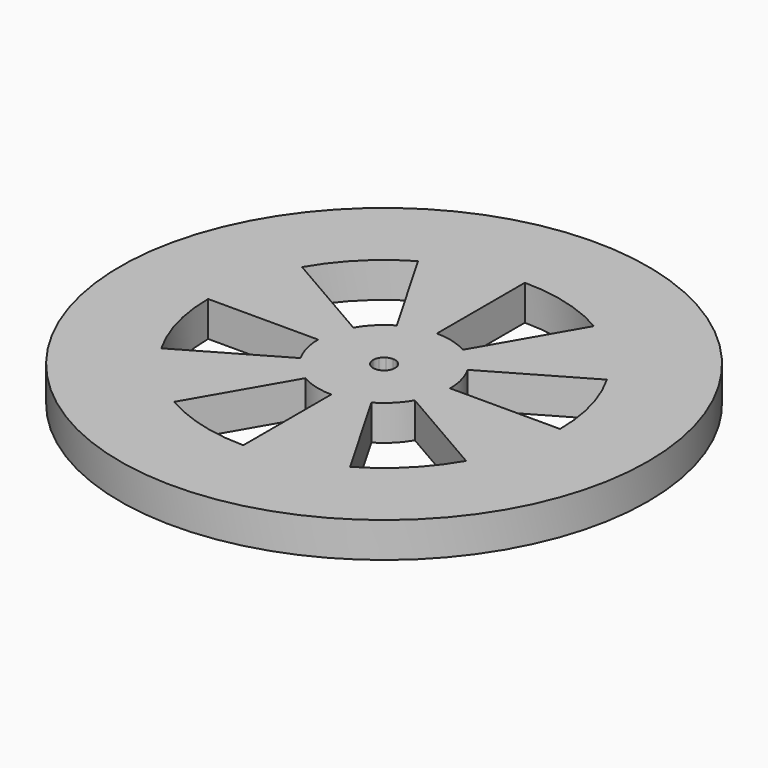
from build123d import *

# Parameters (mm, degrees)
F0_R     = 38.1
F1_DEPTH = 5.08


with BuildPart() as f1:
    # F0 (on Top) → F1 (new body)
    with BuildSketch(Plane.XY):
        Circle(F0_R)
        with BuildLine():
            ThreePointArc((21.9970452561, 12.7), (24.5345159877, 6.5740037456), (25.4, 0))
            ThreePointArc((25.4, 0), (24.5345159877, -6.5740037456), (21.9970452561, -12.7))
            ThreePointArc((21.9970452561, -12.7), (17.9605122421, -17.9605122421), (12.7, -21.9970452561))
            ThreePointArc((12.7, -21.9970452561), (6.5740037456, -24.5345159877), (0, -25.4))
            ThreePointArc((0, -25.4), (-6.5740037456, -24.5345159877), (-12.7, -21.9970452561))
            ThreePointArc((-12.7, -21.9970452561), (-17.9605122421, -17.9605122421), (-21.9970452561, -12.7))
            ThreePointArc((-21.9970452561, -12.7), (-24.5345159877, -6.5740037456), (-25.4, 0))
            ThreePointArc((-25.4, 0), (-24.5345159877, 6.5740037456), (-21.9970452561, 12.7))
            ThreePointArc((-21.9970452561, 12.7), (-17.9605122421, 17.9605122421), (-12.7, 21.9970452561))
            ThreePointArc((-12.7, 21.9970452561), (-6.5740037456, 24.5345159877), (0, 25.4))
            ThreePointArc((0, 25.4), (6.5740037456, 24.5345159877), (12.7, 21.9970452561))
            ThreePointArc((12.7, 21.9970452561), (17.9605122421, 17.9605122421), (21.9970452561, 12.7))
        make_face(mode=Mode.SUBTRACT)
        with BuildLine():
            Line((8.248891971, 4.7625), (21.9970452561, 12.7))
            ThreePointArc((21.9970452561, 12.7), (17.9605122421, 17.9605122421), (12.7, 21.9970452561))
            Line((12.7, 21.9970452561), (4.7625, 8.248891971))
            ThreePointArc((4.7625, 8.248891971), (6.7351920908, 6.7351920908), (8.248891971, 4.7625))
        make_face()
        with BuildLine():
            Line((-8.248891971, 4.7625), (-21.9970452561, 12.7))
            ThreePointArc((-21.9970452561, 12.7), (-24.5345159877, 6.5740037456), (-25.4, 0))
            Line((-25.4, 0), (-9.525, 0))
            ThreePointArc((-9.525, 0), (-9.2004434954, 2.4652514046), (-8.248891971, 4.7625))
        make_face()
        with BuildLine():
            ThreePointArc((-21.9970452561, -12.7), (-17.9605122421, -17.9605122421), (-12.7, -21.9970452561))
            Line((-12.7, -21.9970452561), (-4.7625, -8.248891971))
            ThreePointArc((-4.7625, -8.248891971), (-6.7351920908, -6.7351920908), (-8.248891971, -4.7625))
            Line((-8.248891971, -4.7625), (-21.9970452561, -12.7))
        make_face()
        with BuildLine():
            Line((0, 9.525), (0, 25.4))
            ThreePointArc((0, 25.4), (-6.5740037456, 24.5345159877), (-12.7, 21.9970452561))
            Line((-12.7, 21.9970452561), (-4.7625, 8.248891971))
            ThreePointArc((-4.7625, 8.248891971), (-2.4652514046, 9.2004434954), (0, 9.525))
        make_face()
        with BuildLine():
            ThreePointArc((0, -25.4), (6.5740037456, -24.5345159877), (12.7, -21.9970452561))
            Line((12.7, -21.9970452561), (4.7625, -8.248891971))
            ThreePointArc((4.7625, -8.248891971), (2.4652514046, -9.2004434954), (0, -9.525))
            Line((0, -9.525), (0, -25.4))
        make_face()
        with BuildLine():
            ThreePointArc((21.9970452561, -12.7), (24.5345159877, -6.5740037456), (25.4, 0))
            Line((25.4, 0), (9.525, 0))
            ThreePointArc((9.525, 0), (9.2004434954, -2.4652514046), (8.248891971, -4.7625))
            Line((8.248891971, -4.7625), (21.9970452561, -12.7))
        make_face()
        with BuildLine():
            ThreePointArc((-0.79375, -1.3748153285), (-1.1225320151, -1.1225320151), (-1.3748153285, -0.79375))
            Line((-1.3748153285, -0.79375), (-8.248891971, -4.7625))
            ThreePointArc((-8.248891971, -4.7625), (-6.7351920908, -6.7351920908), (-4.7625, -8.248891971))
            Line((-4.7625, -8.248891971), (-0.79375, -1.3748153285))
        make_face()
        with BuildLine():
            ThreePointArc((-4.7625, -8.248891971), (-2.4652514046, -9.2004434954), (0, -9.525))
            Line((0, -9.525), (0, -1.5875))
            ThreePointArc((0, -1.5875), (-0.4108752341, -1.5334072492), (-0.79375, -1.3748153285))
            Line((-0.79375, -1.3748153285), (-4.7625, -8.248891971))
        make_face()
        with BuildLine():
            ThreePointArc((0, -9.525), (2.4652514046, -9.2004434954), (4.7625, -8.248891971))
            Line((4.7625, -8.248891971), (0.79375, -1.3748153285))
            ThreePointArc((0.79375, -1.3748153285), (0.4108752341, -1.5334072492), (0, -1.5875))
            Line((0, -1.5875), (0, -9.525))
        make_face()
        with BuildLine():
            ThreePointArc((4.7625, -8.248891971), (6.7351920908, -6.7351920908), (8.248891971, -4.7625))
            Line((8.248891971, -4.7625), (1.3748153285, -0.79375))
            ThreePointArc((1.3748153285, -0.79375), (1.1225320151, -1.1225320151), (0.79375, -1.3748153285))
            Line((0.79375, -1.3748153285), (4.7625, -8.248891971))
        make_face()
        with BuildLine():
            ThreePointArc((8.248891971, -4.7625), (9.2004434954, -2.4652514046), (9.525, 0))
            Line((9.525, 0), (1.5875, 0))
            ThreePointArc((1.5875, 0), (1.5334072492, -0.4108752341), (1.3748153285, -0.79375))
            Line((1.3748153285, -0.79375), (8.248891971, -4.7625))
        make_face()
        with BuildLine():
            Line((1.5875, 0), (9.525, 0))
            ThreePointArc((9.525, 0), (9.2004434954, 2.4652514046), (8.248891971, 4.7625))
            Line((8.248891971, 4.7625), (1.3748153285, 0.79375))
            ThreePointArc((1.3748153285, 0.79375), (1.5334072492, 0.4108752341), (1.5875, 0))
        make_face()
        with BuildLine():
            Line((1.3748153285, 0.79375), (8.248891971, 4.7625))
            ThreePointArc((8.248891971, 4.7625), (6.7351920908, 6.7351920908), (4.7625, 8.248891971))
            Line((4.7625, 8.248891971), (0.79375, 1.3748153285))
            ThreePointArc((0.79375, 1.3748153285), (1.1225320151, 1.1225320151), (1.3748153285, 0.79375))
        make_face()
        with BuildLine():
            Line((0.79375, 1.3748153285), (4.7625, 8.248891971))
            ThreePointArc((4.7625, 8.248891971), (2.4652514046, 9.2004434954), (0, 9.525))
            Line((0, 9.525), (0, 1.5875))
            ThreePointArc((0, 1.5875), (0.4108752341, 1.5334072492), (0.79375, 1.3748153285))
        make_face()
        with BuildLine():
            Line((0, 1.5875), (0, 9.525))
            ThreePointArc((0, 9.525), (-2.4652514046, 9.2004434954), (-4.7625, 8.248891971))
            Line((-4.7625, 8.248891971), (-0.79375, 1.3748153285))
            ThreePointArc((-0.79375, 1.3748153285), (-0.4108752341, 1.5334072492), (0, 1.5875))
        make_face()
        with BuildLine():
            ThreePointArc((-1.3748153285, 0.79375), (-1.1225320151, 1.1225320151), (-0.79375, 1.3748153285))
            Line((-0.79375, 1.3748153285), (-4.7625, 8.248891971))
            ThreePointArc((-4.7625, 8.248891971), (-6.7351920908, 6.7351920908), (-8.248891971, 4.7625))
            Line((-8.248891971, 4.7625), (-1.3748153285, 0.79375))
        make_face()
        with BuildLine():
            ThreePointArc((-1.5875, 0), (-1.5334072492, 0.4108752341), (-1.3748153285, 0.79375))
            Line((-1.3748153285, 0.79375), (-8.248891971, 4.7625))
            ThreePointArc((-8.248891971, 4.7625), (-9.2004434954, 2.4652514046), (-9.525, 0))
            Line((-9.525, 0), (-1.5875, 0))
        make_face()
        with BuildLine():
            ThreePointArc((-1.3748153285, -0.79375), (-1.5334072492, -0.4108752341), (-1.5875, 0))
            Line((-1.5875, 0), (-9.525, 0))
            ThreePointArc((-9.525, 0), (-9.2004434954, -2.4652514046), (-8.248891971, -4.7625))
            Line((-8.248891971, -4.7625), (-1.3748153285, -0.79375))
        make_face()
    extrude(amount=F1_DEPTH)


solid = f1.part
